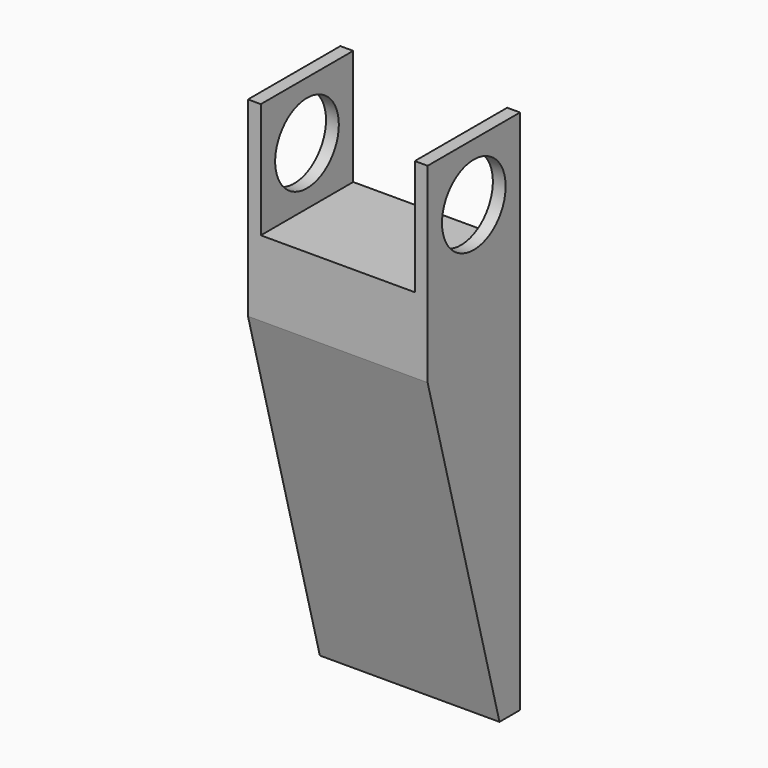
from build123d import *

# Parameters (mm, degrees)
F0_W     = 57.15
F0_H     = 203.2
F1_DEPTH = 88.9
F0_H_2   = 57.15
F0_R     = 19.685
F2_DEPTH = 6.35
F3_W     = 6.35
F3_H     = 57.15
F4_DEPTH = 57.15
F5_R     = 19.685
F6_DEPTH = 6.35
F7_SIZE2 = 165.8896583964
F7_SIZE  = 44.45


with BuildPart() as f1:
    # F0 (on Right) → F1 (new body)
    with BuildSketch(Plane.YZ):
        with Locations((0, -130.175)):
            Rectangle(F0_W, F0_H)
    extrude(amount=F1_DEPTH)

    # F0 (on Right) → F2 (join)
    with BuildSketch(Plane.YZ):
        Rectangle(F0_W, F0_H_2)
        Circle(F0_R, mode=Mode.SUBTRACT)
    extrude(amount=F2_DEPTH)

    # F3 (on face) → F4 (join)
    with BuildSketch(Plane.XY.offset(-28.575)):
        with Locations((85.725, 0)):
            Rectangle(F3_W, F3_H)
    extrude(amount=F4_DEPTH)

    # F5 (on face) → F6 (cut)
    with BuildSketch(Plane(origin=(82.55, 0, 0), x_dir=(0, -1, 0), z_dir=(-1, 0, 0))):
        Circle(F5_R)
    extrude(amount=-F6_DEPTH, mode=Mode.SUBTRACT)

    # F7
    f7_edges = [f1.edges().sort_by_distance(p)[0] for p in [
        (44.45, -28.575, -231.775),
    ]]
    f7_side = f1.faces().sort_by_distance((44.45, 0, -231.775))[0]
    chamfer(f7_edges, length=F7_SIZE, length2=F7_SIZE2, reference=f7_side)


solid = f1.part
